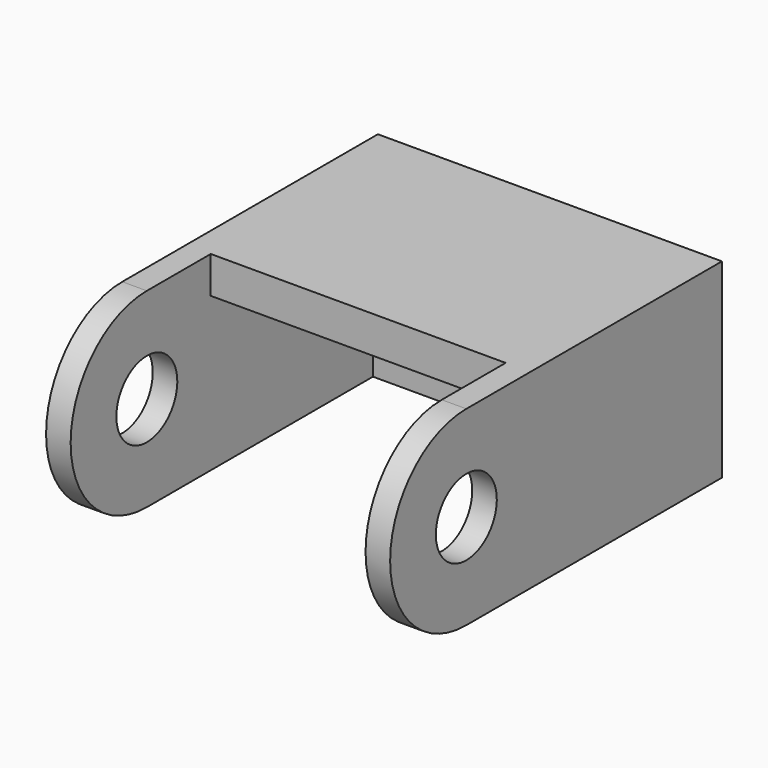
from build123d import *

# Parameters (mm, degrees)
CYLINDER015_R     = 3.1
CYLINDER015_DEPTH = 2
CYLINDER014_R     = 3.1
CYLINDER014_DEPTH = 2
CYLINDER012_R     = 7.75
CYLINDER012_DEPTH = 2
BOX015_W          = 2
BOX015_H          = 23
BOX015_DEPTH      = 15.5
BOX014_W          = 2
BOX014_H          = 23
BOX014_DEPTH      = 15.5
BOX013_W          = 24
BOX013_H          = 16.5
BOX013_DEPTH      = 3
BOX012_W          = 28
BOX012_H          = 3
BOX012_DEPTH      = 15.5
CYLINDER013_R     = 7.75
CYLINDER013_DEPTH = 2


with BuildPart() as cylinder015:
    # Cylinder015 → Cylinder015 (new body)
    with BuildSketch(Plane(origin=(21, -26, -6.75), x_dir=(0, 0, 1), z_dir=(-1, 0, 0))):
        Circle(CYLINDER015_R)
    extrude(amount=CYLINDER015_DEPTH)


with BuildPart() as fusion001:
    # Cylinder014 → Cylinder014 (new body)
    with BuildSketch(Plane(origin=(-5, -26, -6.75), x_dir=(0, 0, 1), z_dir=(-1, 0, 0))):
        Circle(CYLINDER014_R)
    extrude(amount=CYLINDER014_DEPTH)

    # Fusion001: union Cylinder015
    add(cylinder015.part)


with BuildPart() as cylinder012:
    # Cylinder012 → Cylinder012 (new body)
    with BuildSketch(Plane(origin=(-5, -26, -6.75), x_dir=(0, 0, 1), z_dir=(-1, 0, 0))):
        Circle(CYLINDER012_R)
    extrude(amount=CYLINDER012_DEPTH)


with BuildPart() as cube011:
    # Box015 → Box015 (new body)
    with BuildSketch(Plane(origin=(19, -26, -14.5), x_dir=(1, 0, 0), z_dir=(0, 0, 1))):
        with Locations((1, 11.5)):
            Rectangle(BOX015_W, BOX015_H)
    extrude(amount=BOX015_DEPTH)


with BuildPart() as cube010:
    # Box014 → Box014 (new body)
    with BuildSketch(Plane(origin=(-7, -26, -14.5), x_dir=(1, 0, 0), z_dir=(0, 0, 1))):
        with Locations((1, 11.5)):
            Rectangle(BOX014_W, BOX014_H)
    extrude(amount=BOX014_DEPTH)


with BuildPart() as cube009:
    # Box013 → Box013 (new body)
    with BuildSketch(Plane(origin=(-5, -19.5, -2), x_dir=(1, 0, 0), z_dir=(0, 0, 1))):
        with Locations((12, 8.25)):
            Rectangle(BOX013_W, BOX013_H)
    extrude(amount=BOX013_DEPTH)


with BuildPart() as cube008:
    # Box012 → Box012 (new body)
    with BuildSketch(Plane(origin=(-7, -3, -14.5), x_dir=(1, 0, 0), z_dir=(0, 0, 1))):
        with Locations((14, 1.5)):
            Rectangle(BOX012_W, BOX012_H)
    extrude(amount=BOX012_DEPTH)


with BuildPart() as obj1:
    # Cylinder013 → Cylinder013 (new body)
    with BuildSketch(Plane(origin=(21, -26, -6.75), x_dir=(0, 0, 1), z_dir=(-1, 0, 0))):
        Circle(CYLINDER013_R)
    extrude(amount=CYLINDER013_DEPTH)

    # Fusion: union Cylinder012, Cube011, Cube010, Cube009, Cube008
    add(cylinder012.part)
    add(cube011.part)
    add(cube010.part)
    add(cube009.part)
    add(cube008.part)

    # Cut: cut Fusion001
    add(fusion001.part, mode=Mode.SUBTRACT)


solid = obj1.part
